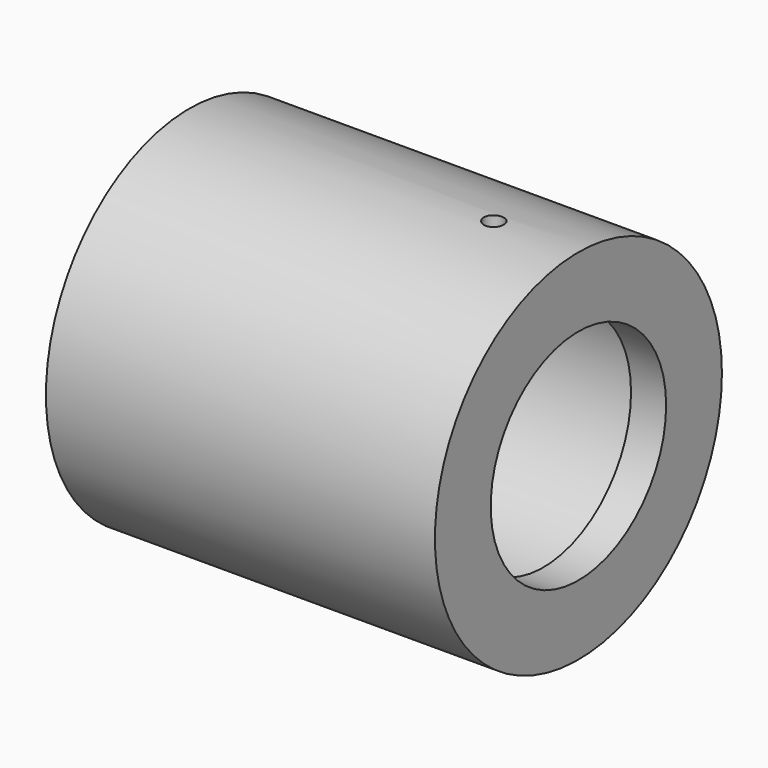
from build123d import *

# Parameters (mm, degrees)
F0_R     = 28.575
F0_R_2   = 17.4625
F1_DEPTH = 61.976
F3_R     = 21.844
F4_DEPTH = 50.8
F7_R     = 1.5875
F8_DEPTH = 12.7


with BuildPart() as f1:
    # F0 (on Right) → F1 (new body)
    with BuildSketch(Plane.YZ):
        Circle(F0_R)
        Circle(F0_R_2, mode=Mode.SUBTRACT)
    extrude(amount=-F1_DEPTH)

    # F3 (on offset) → F4 (cut)
    with BuildSketch(Plane.YZ.offset(-5.588)):
        Circle(F3_R)
    extrude(amount=-F4_DEPTH, mode=Mode.SUBTRACT)

    # F7 (on face) → F8 (cut)
    with BuildSketch(Plane.XY.offset(28.575)):
        with Locations((-13.462, 0)):
            Circle(F7_R)
    extrude(amount=-F8_DEPTH, mode=Mode.SUBTRACT)


solid = f1.part
